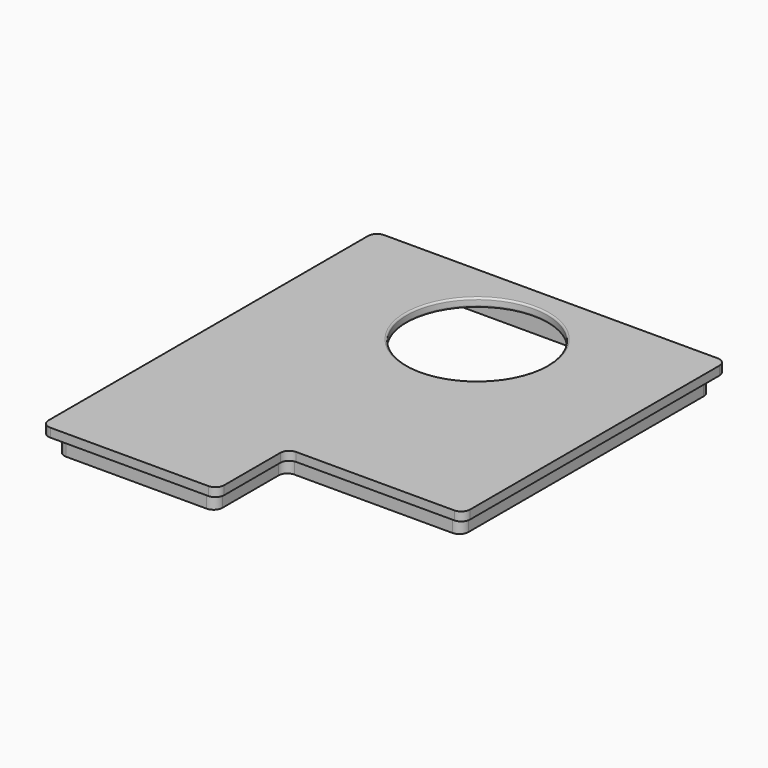
from build123d import *

# Parameters (mm, degrees)
F1_DEPTH = 2.54
F3_DEPTH = 5.08
F4_R     = 20.32
F5_DEPTH = 7.621
F6_R     = 2.54
F7_R     = 0.508


with BuildPart() as f1:
    # F0 (on Top) → F1 (new body)
    with BuildSketch(Plane.XY):
        Polygon((88.876464, 93.29783), (-12.723536, 93.29783), (-12.723536, -27.35217), (38.076464, -27.35217), (38.076464, -1.95217), (88.876464, -1.95217), align=None)
    extrude(amount=F1_DEPTH)

    # F2 (on face) → F3 (join)
    with BuildSketch(Plane(origin=(0, 0, 0), x_dir=(1, 0, 0), z_dir=(0, 0, -1))):
        Polygon((35.536464, -0.58783), (35.536464, 24.81217), (-10.183536, 24.81217), (-10.183536, -90.75783), (86.336464, -90.75783), (86.336464, -0.58783), align=None)
        Polygon((-7.643536, 22.27217), (32.996464, 22.27217), (32.996464, -3.12783), (83.796464, -3.12783), (83.796464, -88.21783), (-7.643536, -88.21783), align=None, mode=Mode.SUBTRACT)
    extrude(amount=F3_DEPTH)

    # F4 (on face) → F5 (cut, through all)
    with BuildSketch(Plane.XY.offset(2.54)):
        with Locations((38.076464, 66.62783)):
            Circle(F4_R)
    extrude(amount=-F5_DEPTH, mode=Mode.SUBTRACT)

    # F6
    f6_edges = [f1.edges().sort_by_distance(p)[0] for p in [
        (38.076464, -27.35217, 1.27),
        (35.536464, -24.81217, -2.54),
        (35.536464, 0.58783, -2.54),
        (38.076464, -1.95217, 1.27),
        (86.336464, 0.58783, -2.54),
        (88.876464, -1.95217, 1.27),
        (-12.723536, -27.35217, 1.27),
        (-10.183536, -24.81217, -2.54),
        (88.876464, 93.29783, 1.27),
        (86.336464, 90.75783, -2.54),
        (-12.723536, 93.29783, 1.27),
        (-10.183536, 90.75783, -2.54),
        (32.996464, 3.12783, -2.54),
        (32.996464, -22.27217, -2.54),
        (-7.643536, -22.27217, -2.54),
        (-7.643536, 88.21783, -2.54),
        (83.796464, 88.21783, -2.54),
        (83.796464, 3.12783, -2.54),
    ]]
    fillet(f6_edges, radius=F6_R)

    # F7
    f7_edges = [f1.edges().sort_by_distance(p)[0] for p in [
        (17.756464, 66.62783, 0),
        (17.756464, 66.62783, 2.54),
    ]]
    fillet(f7_edges, radius=F7_R)


solid = f1.part
